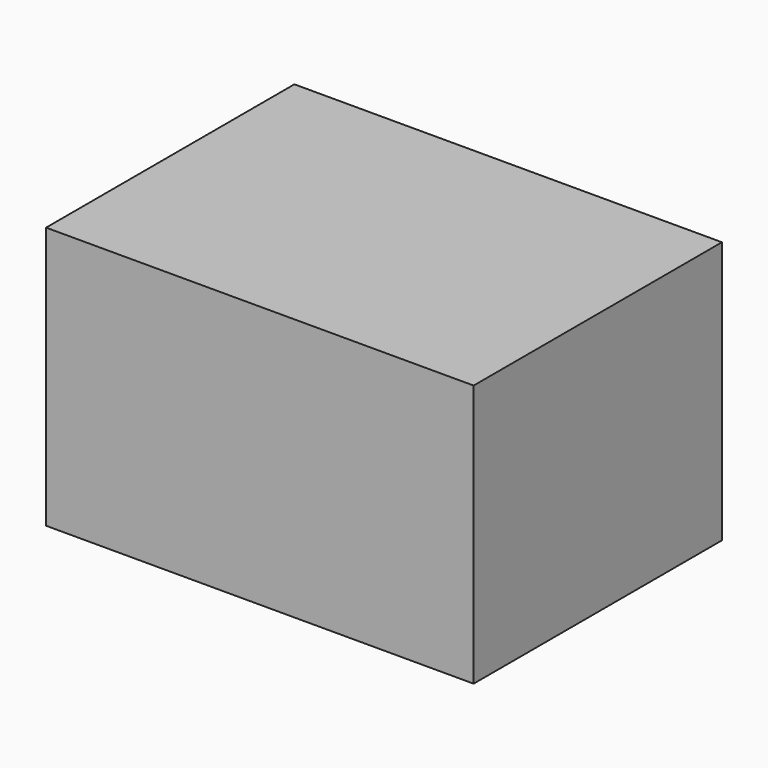
from build123d import *

# Parameters (mm, degrees)
F0_W      = 96.656375
F0_H      = 88.601682
F1_DEPTH  = 74.93
F1_FACE_W = 88.601682
F1_FACE_H = 74.93
F2_DEPTH  = 25.4
F2_FACE_W = 122.056374
F2_FACE_H = 88.601682
F3_DEPTH  = 58.166


with BuildPart() as f1:
    # F0 (on Top) → F1 (new body)
    with BuildSketch(Plane.XY):
        with Locations((5.101309, 0.268491)):
            Rectangle(F0_W, F0_H)
    extrude(amount=F1_DEPTH)

    # F1_face (on face) → F2 (join)
    with BuildSketch(Plane(origin=(53.429496, 0.268491, 37.465), x_dir=(0, 1, 0), z_dir=(1, 0, 0))):
        Rectangle(F1_FACE_W, F1_FACE_H)
    extrude(amount=F2_DEPTH)

    # F2_face (on face) → F3 (join)
    with BuildSketch(Plane(origin=(17.801308, 0.268491, 74.93), x_dir=(1, 0, 0), z_dir=(0, 0, 1))):
        Rectangle(F2_FACE_W, F2_FACE_H)
    extrude(amount=-F3_DEPTH)


solid = f1.part
